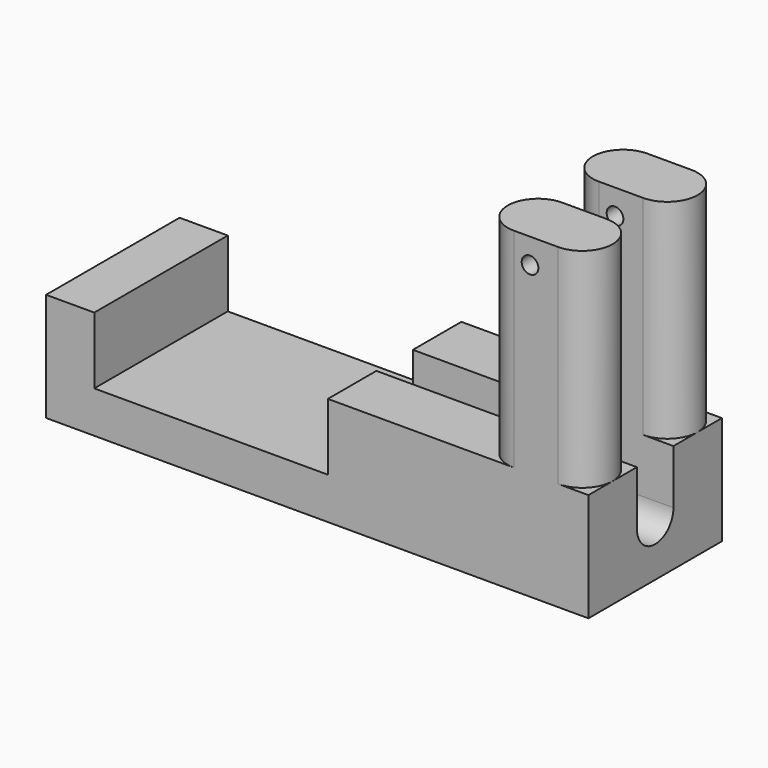
from build123d import *

# Parameters (mm, degrees)
SKETCH_W        = 65
SKETCH_H        = 20
PAD_DEPTH       = 5
SKETCH001_W     = 31.226576
SKETCH001_H     = 20
SKETCH001_W_2   = 5.773424
PAD001_DEPTH    = 8
POCKET_DEPTH    = 31.226576
PAD002_DEPTH    = 25
SKETCH003_R     = 1
POCKET001_DEPTH = 20.001


with BuildPart() as pocket001:
    # Sketch → Pad (new body)
    with BuildSketch(Plane.XY):
        with Locations((2.5, 0)):
            Rectangle(SKETCH_W, SKETCH_H)
    extrude(amount=PAD_DEPTH)

    # Sketch001 → Pad001 (new body)
    with BuildSketch(Plane.XY.offset(5)):
        with Locations((19.386712, 0)):
            Rectangle(SKETCH001_W, SKETCH001_H)
        with Locations((-27.113288, 0)):
            Rectangle(SKETCH001_W_2, SKETCH001_H)
    extrude(amount=PAD001_DEPTH)

    # Sketch002 → Pocket (cut)
    with BuildSketch(Plane.YZ.offset(35)):
        with BuildLine():
            Line((-2.73443, 15), (-2.73443, 6.487833))
            ThreePointArc((-2.73443, 6.487833), (0, 3.753403), (2.73443, 6.487833))
            Line((2.73443, 15), (2.73443, 6.487833))
            Line((-2.73443, 15), (2.73443, 15))
        make_face()
    extrude(amount=-POCKET_DEPTH, mode=Mode.SUBTRACT)

    # Sketch004 → Pad002 (new body)
    with BuildSketch(Plane.XY.offset(13)):
        with BuildLine():
            ThreePointArc((26.060559, -2.73443), (22.427774, -6.367215), (26.060559, -10))
            Line((26.060559, -10), (31.367215, -10))
            ThreePointArc((31.367215, -10), (35, -6.367215), (31.367215, -2.73443))
            Line((26.060559, -2.73443), (31.367215, -2.73443))
        make_face()
    extrude(amount=PAD002_DEPTH)

    # Sketch003 → Pocket001 (cut, through all)
    with BuildSketch(Plane.XZ.offset(10)):
        with Locations((28, 35)):
            Circle(SKETCH003_R)
    extrude(amount=-POCKET001_DEPTH, mode=Mode.SUBTRACT)


with BuildPart() as part_mirroring:
    # Part__Mirroring: instance of Pocket001
    add(pocket001.part.mirror(Plane(origin=(0, 0, 0), x_dir=(1, 0, 0), z_dir=(0, 1, 0))))


with BuildPart() as fusion:
    # Fusion base: copy of Pocket001
    add(pocket001.part)

    # Fusion: union Part__Mirroring
    add(part_mirroring.part)


solid = fusion.part
